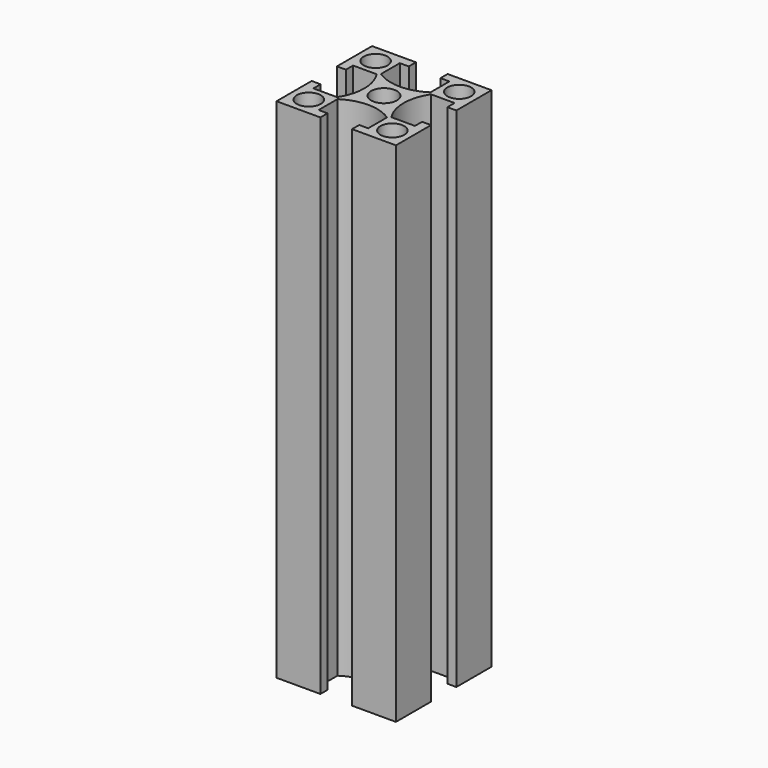
from build123d import *

# Parameters (mm, degrees)
F0_R     = 2
F0_R_2   = 2.15
F1_DEPTH = 85


with BuildPart() as f1:
    # F0 (on Top) → F1 (new body)
    with BuildSketch(Plane.XY):
        with BuildLine():
            Line((-10, 10), (-10, 2.65))
            Line((-10, 2.65), (-8.5, 2.65))
            Line((-8.5, 2.65), (-8.5, 4.15))
            Line((-8.5, 4.15), (-4.552801, 4.15))
            ThreePointArc((-4.552801, 4.15), (-3.3, 0), (-4.552801, -4.15))
            Line((-4.552801, -4.15), (-8.5, -4.15))
            Line((-8.5, -4.15), (-8.5, -2.65))
            Line((-8.5, -2.65), (-10, -2.65))
            Line((-10, -2.65), (-10, -10))
            Line((-10, -10), (-2.65, -10))
            Line((-2.65, -10), (-2.65, -8.5))
            Line((-2.65, -8.5), (-4.15, -8.5))
            Line((-4.15, -8.5), (-4.15, -4.552801))
            ThreePointArc((-4.15, -4.552801), (0, -3.3), (4.15, -4.552801))
            Line((4.15, -4.552801), (4.15, -8.5))
            Line((4.15, -8.5), (2.65, -8.5))
            Line((2.65, -8.5), (2.65, -10))
            Line((2.65, -10), (10, -10))
            Line((10, -10), (10, -2.65))
            Line((10, -2.65), (8.5, -2.65))
            Line((8.5, -2.65), (8.5, -4.15))
            Line((8.5, -4.15), (4.552801, -4.15))
            ThreePointArc((4.552801, -4.15), (3.3, 0), (4.552801, 4.15))
            Line((4.552801, 4.15), (8.5, 4.15))
            Line((8.5, 4.15), (8.5, 2.65))
            Line((8.5, 2.65), (10, 2.65))
            Line((10, 2.65), (10, 10))
            Line((10, 10), (2.65, 10))
            Line((2.65, 10), (2.65, 8.5))
            Line((2.65, 8.5), (4.15, 8.5))
            Line((4.15, 8.5), (4.15, 4.552801))
            ThreePointArc((4.15, 4.552801), (0, 3.3), (-4.15, 4.552801))
            Line((-4.15, 4.552801), (-4.15, 8.5))
            Line((-4.15, 8.5), (-2.65, 8.5))
            Line((-2.65, 8.5), (-2.65, 10))
            Line((-2.65, 10), (-10, 10))
        make_face()
        with Locations((-7, -7)):
            Circle(F0_R, mode=Mode.SUBTRACT)
        with Locations((7, -7)):
            Circle(F0_R, mode=Mode.SUBTRACT)
        with Locations((-7, 7)):
            Circle(F0_R, mode=Mode.SUBTRACT)
        Circle(F0_R_2, mode=Mode.SUBTRACT)
        with Locations((7, 7)):
            Circle(F0_R, mode=Mode.SUBTRACT)
    extrude(amount=F1_DEPTH)


solid = f1.part
